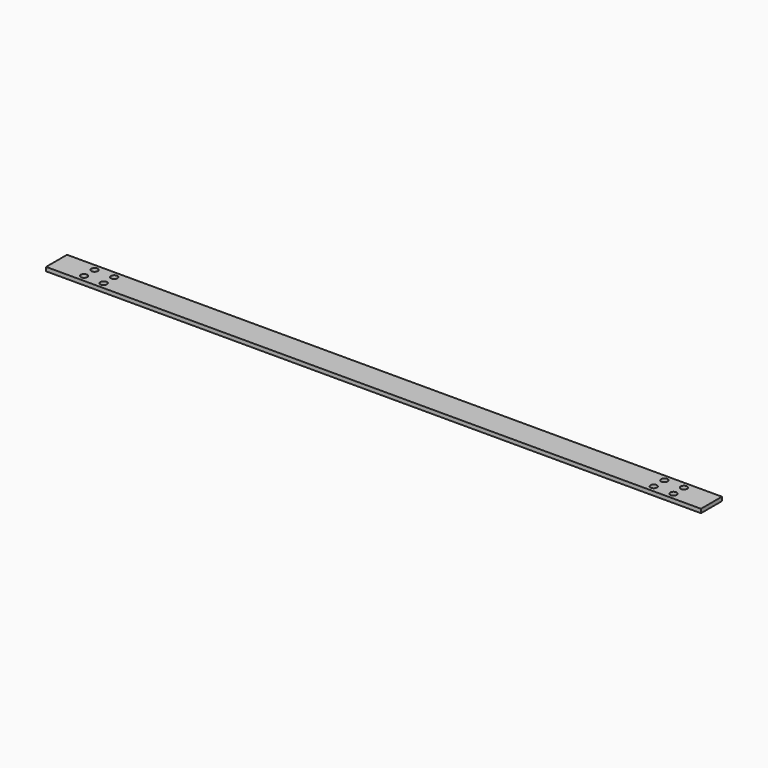
from build123d import *

# Parameters (mm, degrees)
F0_W     = 500
F0_H     = 20
F0_R     = 2.5
F1_DEPTH = 3


with BuildPart() as f1:
    # F0 (on Top) → F1 (new body)
    with BuildSketch(Plane.XY):
        Rectangle(F0_W, F0_H)
        with Locations((-225, -5)):
            Circle(F0_R, mode=Mode.SUBTRACT)
        with Locations((-210, -5)):
            Circle(F0_R, mode=Mode.SUBTRACT)
        with Locations((209.944212, -5)):
            Circle(F0_R, mode=Mode.SUBTRACT)
        with Locations((225, -5)):
            Circle(F0_R, mode=Mode.SUBTRACT)
        with Locations((-225, 5)):
            Circle(F0_R, mode=Mode.SUBTRACT)
        with Locations((-210, 5)):
            Circle(F0_R, mode=Mode.SUBTRACT)
        with Locations((210.000231, 5.083333)):
            Circle(F0_R, mode=Mode.SUBTRACT)
        with Locations((225, 5)):
            Circle(F0_R, mode=Mode.SUBTRACT)
    extrude(amount=F1_DEPTH)


solid = f1.part
